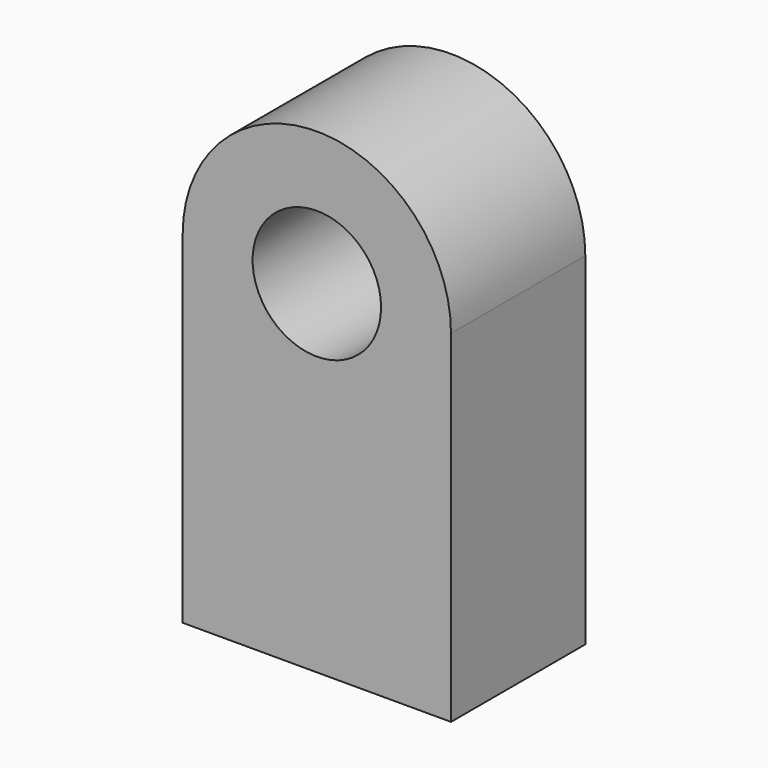
from build123d import *

# Parameters (mm, degrees)
F0_R     = 12.145275
F1_DEPTH = 31.75


with BuildPart() as f1:
    # F0 (on Front) → F1 (new body)
    with BuildSketch(Plane.XZ):
        with BuildLine():
            ThreePointArc((25.372297, 19.465521), (-1e-06, 44.837818), (-25.372298, 19.465521))
            Line((-25.372298, 19.465521), (-25.372298, -45.240555))
            Line((-25.372298, -45.240555), (25.372297, -45.240555))
            Line((25.372297, -45.240555), (25.372297, 19.465521))
        make_face()
        with Locations((-1e-06, 19.465521)):
            Circle(F0_R, mode=Mode.SUBTRACT)
    extrude(amount=F1_DEPTH)


solid = f1.part
